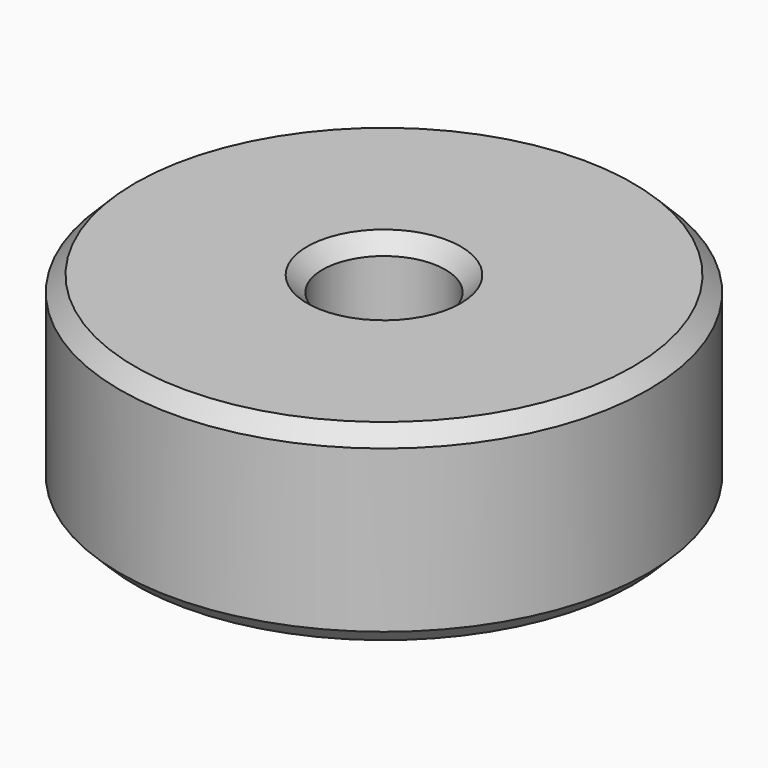
from build123d import *

# Parameters (mm, degrees)
F0_R     = 8.73125
F1_DEPTH = 6.35
F2_R     = 2.032
F3_DEPTH = 25.4
F4_SIZE  = 0.508


with BuildPart() as f1:
    # F0 (on Top) → F1 (new body)
    with BuildSketch(Plane.XY):
        Circle(F0_R)
    extrude(amount=F1_DEPTH)

    # F2 (on face) → F3 (cut)
    with BuildSketch(Plane.XY.offset(6.35)):
        Circle(F2_R)
    extrude(amount=-F3_DEPTH, mode=Mode.SUBTRACT)

    # F4
    f4_edges = [f1.edges().sort_by_distance(p)[0] for p in [
        (-8.73125, 0, 0),
        (-8.73125, 0, 6.35),
        (-2.032, 0, 6.35),
        (-2.032, 0, 0),
    ]]
    chamfer(f4_edges, length=F4_SIZE)


solid = f1.part
